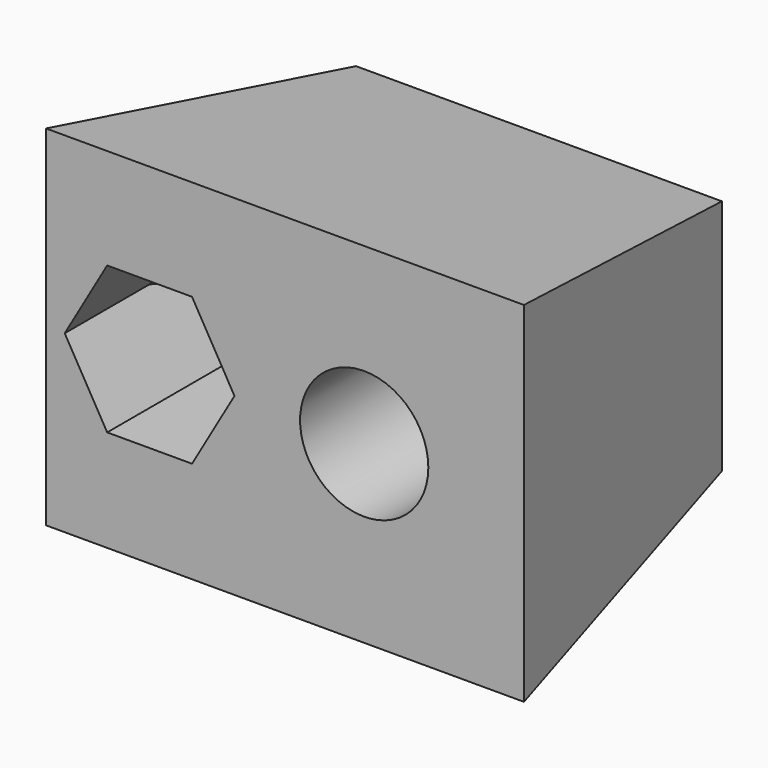
from build123d import *

# Parameters (mm, degrees)
F0_W     = 87.8357961774
F0_H     = 56.9998249412
F1_DEPTH = 76.2
F1_TAPER = -10
F2_R     = 15.3943409372
F3_DEPTH = 76.2010001


with BuildPart() as f1:
    # F0 (on Front) → F1 (new body)
    with BuildSketch(Plane.XZ):
        with Locations((2.1024532616, -0.116802752)):
            Rectangle(F0_W, F0_H)
    extrude(amount=F1_DEPTH, taper=F1_TAPER)

    # F2 (on face) → F3 (cut, through all)
    with BuildSketch(Plane.XZ.offset(76.2)):
        with Locations((21.1121719331, 0)):
            Circle(F2_R)
        Polygon((-40.5855899055, -17.6404323429), (-20.216173182, -17.6404323429), (-10.0314648202, 0), (-20.216173182, 17.6404323429), (-40.5855899055, 17.6404323429), (-50.7702982673, 0), align=None)
    extrude(amount=-F3_DEPTH, mode=Mode.SUBTRACT)


solid = f1.part
